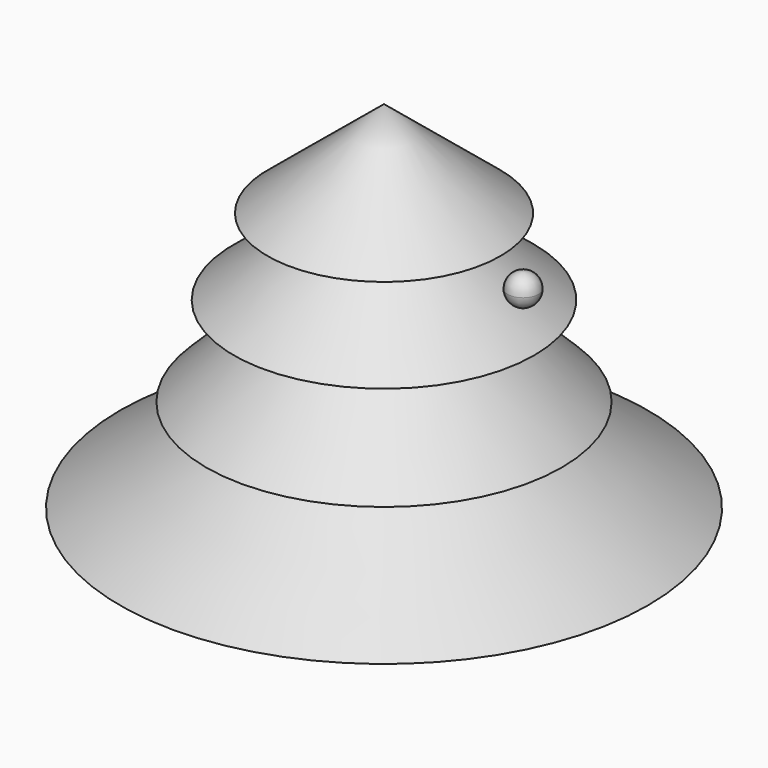
from build123d import *


with BuildPart() as f1:
    # F0 (on Front) → F1 (revolve)
    with BuildSketch(Plane.XZ):
        Polygon((-45.041602, 61.446529), (-45.041602, -53.100161), (40.436711, -53.675774), (-2.734155, -23.456169), (12.51955, -23.456169), (-16.836638, 5.612212), (3.597573, 5.612212), (-26.909839, 30.363508), (-7.339048, 30.363508), align=None)
    revolve(axis=Axis((-45.041602, 0, 4.173184), (0, 0, 1)))


with BuildPart() as f3:
    # F2 (on Right) → F3 (revolve)
    with BuildSketch(Plane.YZ):
        with BuildLine():
            ThreePointArc((0, 18.494128), (3.508693, 19.947476), (4.962042, 23.456169))
            ThreePointArc((4.962042, 23.456169), (3.508693, 26.964863), (0, 28.418211))
            Line((0, 28.418211), (0, 18.494128))
        make_face()
    revolve(axis=Axis((0, 0, 23.456169), (0, 0, -1)))


solid = Compound([f1.part, f3.part])
